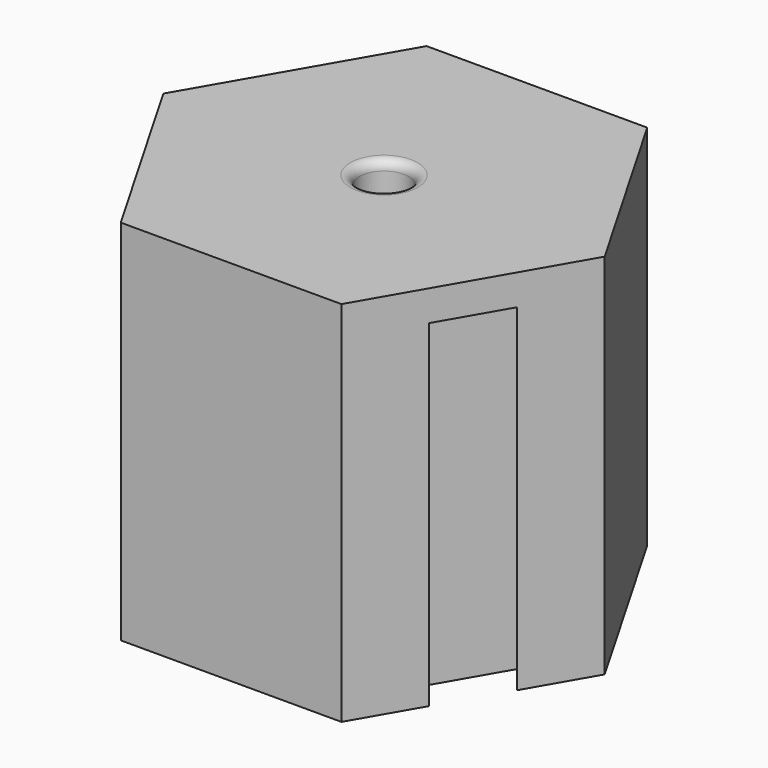
from build123d import *

# Parameters (mm, degrees)
F0_R     = 2
F1_DEPTH = 10
F2_DEPTH = 30
F3_START = 27.5
F3_DEPTH = 2.5
F4_R     = 0.75


with BuildPart() as f1:
    # F0 (on Top) → F1 (new body)
    with BuildSketch(Plane.XY):
        Circle(F0_R)
    extrude(amount=F1_DEPTH)

    # F0 (on Top) → F2 (join)
    with BuildSketch(Plane.XY):
        Polygon((-3, 15.5884572681), (-9, 15.5884572681), (-18, 0), (-15, -5.1961524227), (-13.2792706909, -2.7386962898), (-9.0114159057, -10.1308376172), (-12, -10.3923048454), (-9, -15.5884572681), (9, -15.5884572681), (12, -10.3923048454), (9.0114159057, -10.1308376172), (13.2792706909, -2.7386962898), (15, -5.1961524227), (18, 0), (9, 15.5884572681), (3, 15.5884572681), (4.2678547852, 12.869533907), (-4.2678547852, 12.869533907), align=None)
        Circle(F0_R, mode=Mode.SUBTRACT)
    extrude(amount=F2_DEPTH)

    # F0 (on Top) → F3 (join)
    with BuildSketch(Plane.XY.offset(F3_START)):
        Polygon((3, 15.5884572681), (-3, 15.5884572681), (-4.2678547852, 12.869533907), (4.2678547852, 12.869533907), align=None)
        Polygon((-13.2792706909, -2.7386962898), (-15, -5.1961524227), (-12, -10.3923048454), (-9.0114159057, -10.1308376172), align=None)
        Polygon((12, -10.3923048454), (15, -5.1961524227), (13.2792706909, -2.7386962898), (9.0114159057, -10.1308376172), align=None)
    extrude(amount=F3_DEPTH)

    # F4
    f4_edges = [f1.edges().sort_by_distance(p)[0] for p in [
        (-2, 0, 30),
    ]]
    fillet(f4_edges, radius=F4_R)


solid = f1.part
